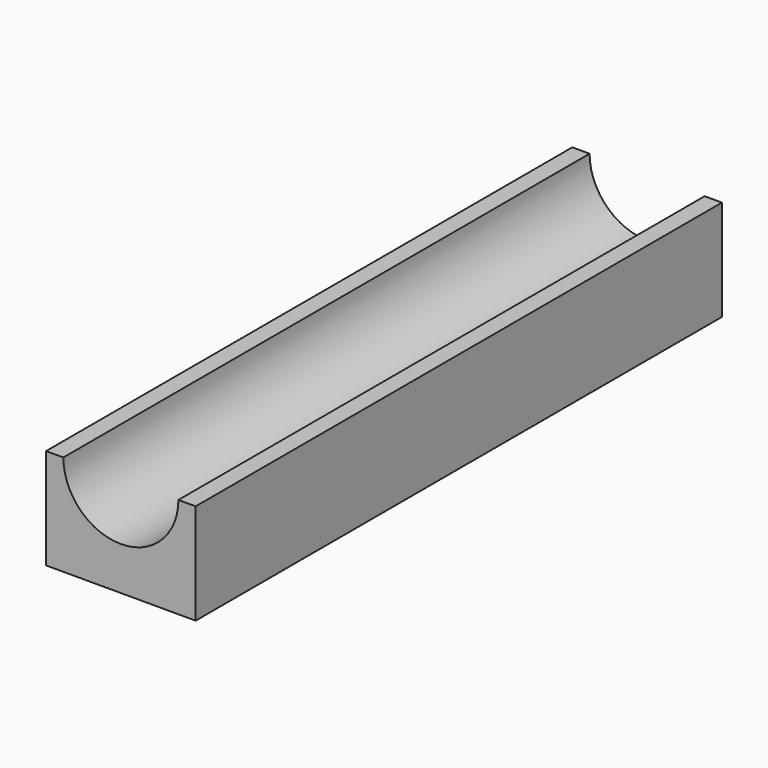
from build123d import *

# Parameters (mm, degrees)
F1_DEPTH = 19.05


with BuildPart() as f1:
    # F0 (on Front) → F1 (new body, symmetric)
    with BuildSketch(Plane.XZ):
        with BuildLine():
            Line((4.33175, 0), (3.33175, 0))
            ThreePointArc((3.33175, 0), (0, -3.33175), (-3.33175, 0))
            Line((-3.33175, 0), (-4.33175, 0))
            Line((-4.33175, 0), (-4.33175, -5.83175))
            Line((-4.33175, -5.83175), (4.33175, -5.83175))
            Line((4.33175, -5.83175), (4.33175, 0))
        make_face()
    extrude(amount=F1_DEPTH, both=True)


solid = f1.part
